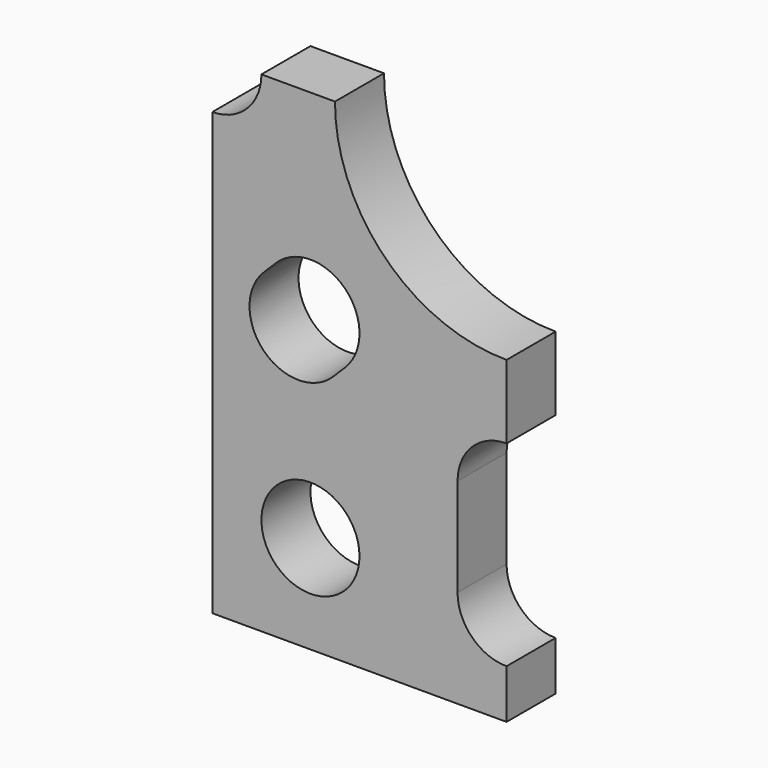
from build123d import *

# Parameters (mm, degrees)
F0_R     = 2
F0_R_2   = 7
F1_DEPTH = 2.5
F2_W     = 15.087983
F2_H     = 23.568587
F3_DEPTH = 25


with BuildPart() as f1:
    # F0 (on Front) → F1 (new body)
    with BuildSketch(Plane.XZ):
        with BuildLine():
            ThreePointArc((-12, 2), (-10, 0), (-12, -2))
            Line((-12, -2), (-12, -20))
            Line((-12, -20), (12, -20))
            Line((12, -20), (12, -2))
            ThreePointArc((12, -2), (10, 0), (12, 2))
            Line((12, 2), (12, 20))
            Line((12, 20), (-12, 20))
            Line((-12, 20), (-12, 2))
        make_face()
        with Locations((-8, -16)):
            Circle(F0_R, mode=Mode.SUBTRACT)
        with BuildLine():
            Line((-6.585786, -9.414214), (-7.071068, -9.899495))
            ThreePointArc((-7.071068, -9.899495), (-9.899495, -9.899495), (-9.899495, -7.071068))
            Line((-9.899495, -7.071068), (-9.414214, -6.585786))
            ThreePointArc((-9.414214, -6.585786), (-6.585786, -6.585786), (-6.585786, -9.414214))
        make_face(mode=Mode.SUBTRACT)
        with BuildLine():
            ThreePointArc((-2, -12), (0, -10), (2, -12))
            Line((2, -12), (2, -16))
            ThreePointArc((2, -16), (0, -18), (-2, -16))
            Line((-2, -16), (-2, -12))
        make_face(mode=Mode.SUBTRACT)
        with Locations((8, -16)):
            Circle(F0_R, mode=Mode.SUBTRACT)
        with BuildLine():
            Line((9.414214, -6.585786), (9.899495, -7.071068))
            ThreePointArc((9.899495, -7.071068), (9.899495, -9.899495), (7.071068, -9.899495))
            Line((7.071068, -9.899495), (6.585786, -9.414214))
            ThreePointArc((6.585786, -9.414214), (6.585786, -6.585786), (9.414214, -6.585786))
        make_face(mode=Mode.SUBTRACT)
        with BuildLine():
            ThreePointArc((-9.899495, 7.071068), (-9.899495, 9.899495), (-7.071068, 9.899495))
            Line((-7.071068, 9.899495), (-6.585786, 9.414214))
            ThreePointArc((-6.585786, 9.414214), (-6.585786, 6.585786), (-9.414214, 6.585786))
            Line((-9.414214, 6.585786), (-9.899495, 7.071068))
        make_face(mode=Mode.SUBTRACT)
        with Locations((-8, 16)):
            Circle(F0_R, mode=Mode.SUBTRACT)
        Circle(F0_R_2, mode=Mode.SUBTRACT)
        with BuildLine():
            Line((6.585786, 9.414214), (7.071068, 9.899495))
            ThreePointArc((7.071068, 9.899495), (9.899495, 9.899495), (9.899495, 7.071068))
            Line((9.899495, 7.071068), (9.414214, 6.585786))
            ThreePointArc((9.414214, 6.585786), (6.585786, 6.585786), (6.585786, 9.414214))
        make_face(mode=Mode.SUBTRACT)
        with BuildLine():
            ThreePointArc((2, 12), (0, 10), (-2, 12))
            Line((-2, 12), (-2, 16))
            ThreePointArc((-2, 16), (0, 18), (2, 16))
            Line((2, 16), (2, 12))
        make_face(mode=Mode.SUBTRACT)
        with Locations((8, 16)):
            Circle(F0_R, mode=Mode.SUBTRACT)
    extrude(amount=F1_DEPTH)

    # F2 (on face) → F3 (intersect)
    with BuildSketch(Plane.XZ.offset(2.5)):
        with Locations((-7.543991, -11.784293)):
            Rectangle(F2_W, F2_H)
    extrude(amount=-F3_DEPTH, mode=Mode.INTERSECT)


solid = f1.part
